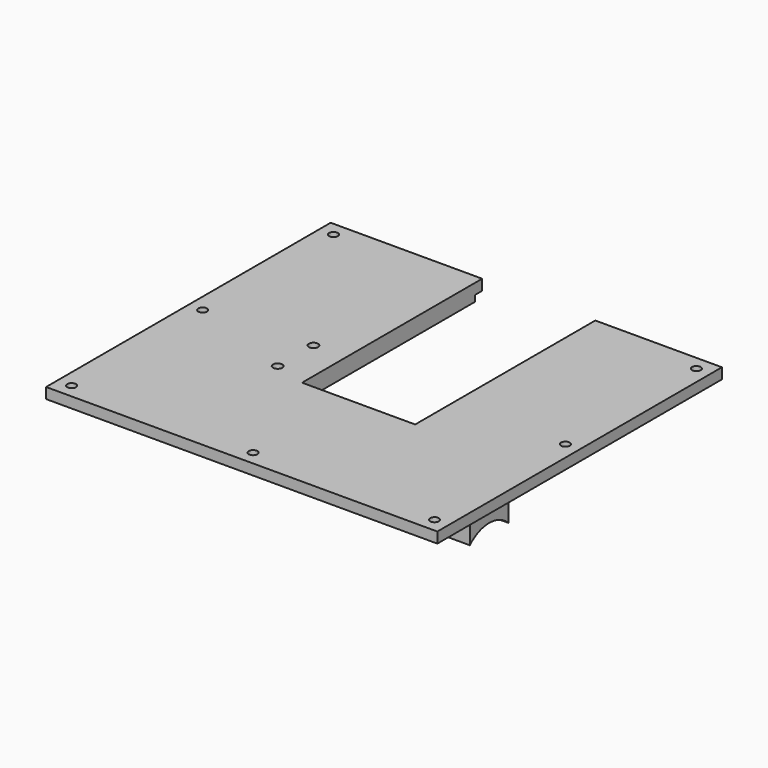
from build123d import *

# Parameters (mm, degrees)
BOX_W                = 40.39
BOX_H                = 86.36
BOX_DEPTH            = 25.4
SKETCH045_W          = 139.7
SKETCH045_H          = 127
PAD022_DEPTH         = 3.81
SKETCH046_W          = 133.096
SKETCH046_H          = 120.396
PAD023_DEPTH         = 2.16
SKETCH013_R          = 1.5621
SKETCH013_R_2        = 1.651
POCKET019_DEPTH      = 5.971
SKETCH047_W          = 20.32
SKETCH047_H          = 17.272
PAD024_DEPTH         = 12.7
SKETCH048_R          = 12.3825
POCKET020_DEPTH      = 69.851
POCKET020_DEPTH_BACK = 69.851


with BuildPart() as top_removal:
    # Box → Box (new body)
    with BuildSketch(Plane(origin=(-15.75, -16.89, 13.87), x_dir=(1, 0, 0), z_dir=(0, 0, 1))):
        with Locations((20.195, 43.18)):
            Rectangle(BOX_W, BOX_H)
    extrude(amount=BOX_DEPTH)


with BuildPart() as top_cover:
    # Sketch045 → Pad022 (new body)
    with BuildSketch(Plane.XY.offset(31.75)):
        Rectangle(SKETCH045_W, SKETCH045_H)
    extrude(amount=PAD022_DEPTH)

    # Sketch046 (on Face5 of Pad022) → Pad023 (join)
    with BuildSketch(Plane(origin=(0, 0, 31.75), x_dir=(1, 0, 0), z_dir=(0, 0, -1))):
        Rectangle(SKETCH046_W, SKETCH046_H)
    extrude(amount=PAD023_DEPTH)

    # Sketch013 (on Face5 of Pad023) → Pocket019 (cut, through all)
    with BuildSketch(Plane.XY.offset(35.56)):
        with Locations((64.7827376585, 58.42)):
            Circle(SKETCH013_R)
        with Locations((64.7827376585, 0)):
            Circle(SKETCH013_R)
        with Locations((64.7827376585, -58.42)):
            Circle(SKETCH013_R)
        with Locations((0, 58.42)):
            Circle(SKETCH013_R)
        with Locations((-64.7827376585, 58.42)):
            Circle(SKETCH013_R)
        with Locations((-64.7827376585, 0.043989)):
            Circle(SKETCH013_R)
        with Locations((-64.7827376585, -58.42)):
            Circle(SKETCH013_R)
        with Locations((0, -58.42)):
            Circle(SKETCH013_R)
        with Locations((-27.313105, 2.676934)):
            Circle(SKETCH013_R_2)
        with Locations((-27.313105, -13.325066)):
            Circle(SKETCH013_R_2)
    extrude(amount=-POCKET019_DEPTH, mode=Mode.SUBTRACT)

    # Sketch047 (on Face21 of Pocket019) → Pad024 (join)
    with BuildSketch(Plane(origin=(0, 0, 29.59), x_dir=(1, 0, 0), z_dir=(0, 0, -1))):
        with Locations((-54.61, 34.036)):
            Rectangle(SKETCH047_W, SKETCH047_H)
        with Locations((54.61, 34.036)):
            Rectangle(SKETCH047_W, SKETCH047_H)
    extrude(amount=PAD024_DEPTH)

    # Sketch048 → Pocket020 (cut, two sides)
    with BuildSketch(Plane.YZ) as pocket020_sk:
        with Locations((-34.036, 12.2428)):
            Circle(SKETCH048_R)
    extrude(amount=-POCKET020_DEPTH, mode=Mode.SUBTRACT)
    extrude(pocket020_sk.sketch, amount=POCKET020_DEPTH_BACK, mode=Mode.SUBTRACT)

    # Cut: cut top_removal
    add(top_removal.part, mode=Mode.SUBTRACT)


solid = top_cover.part
